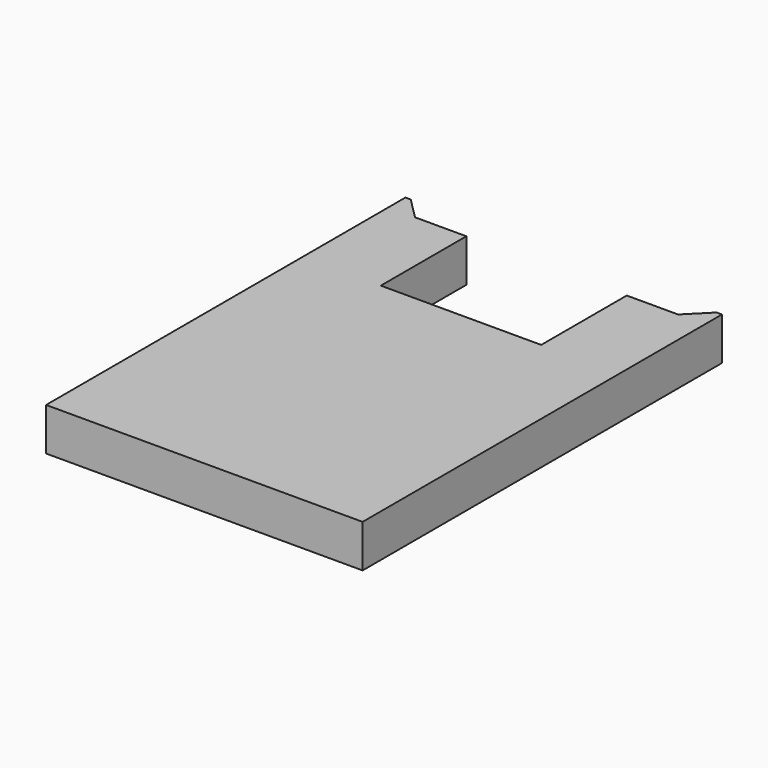
from build123d import *

# Parameters (mm, degrees)
EXTRUDE_DEPTH = 2


with BuildPart() as part:
    # Sketch → Extrude (new body)
    with BuildSketch(Plane.XY):
        Polygon((-7.4, 0), (7.4, 0), (7.4, 21), (7.15, 21), (6.15, 20), (3.75, 20), (3.75, 15), (-3.75, 15), (-3.75, 20), (-6.15, 20), (-7.15, 21), (-7.4, 21), align=None)
    extrude(amount=EXTRUDE_DEPTH)


solid = part.part
